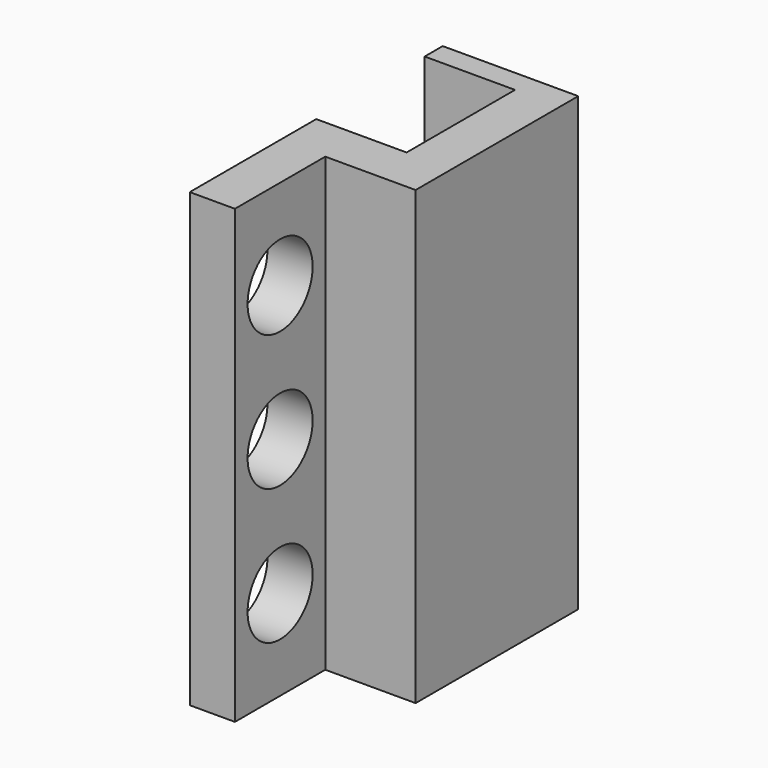
from build123d import *

# Parameters (mm, degrees)
F1_DEPTH = 20
F2_R     = 1.8
F3_DEPTH = 25


with BuildPart() as f1:
    # F0 (on Top) → F1 (new body)
    with BuildSketch(Plane.XY):
        Polygon((7.329645, -10.194992), (7.329645, -1.194992), (1.329645, -1.194992), (1.329645, -2.194992), (5.329645, -2.194992), (5.329645, -8.194992), (1.329645, -8.194992), (1.329645, -15.194992), (3.329645, -15.194992), (3.329645, -10.194992), align=None)
    extrude(amount=F1_DEPTH)

    # F2 (on face) → F3 (cut)
    with BuildSketch(Plane.YZ.offset(3.329645)):
        with Locations((-12.694992, 16)):
            Circle(F2_R)
        with Locations((-12.694992, 10)):
            Circle(F2_R)
        with Locations((-12.694992, 4)):
            Circle(F2_R)
    extrude(amount=-F3_DEPTH, mode=Mode.SUBTRACT)


solid = f1.part
